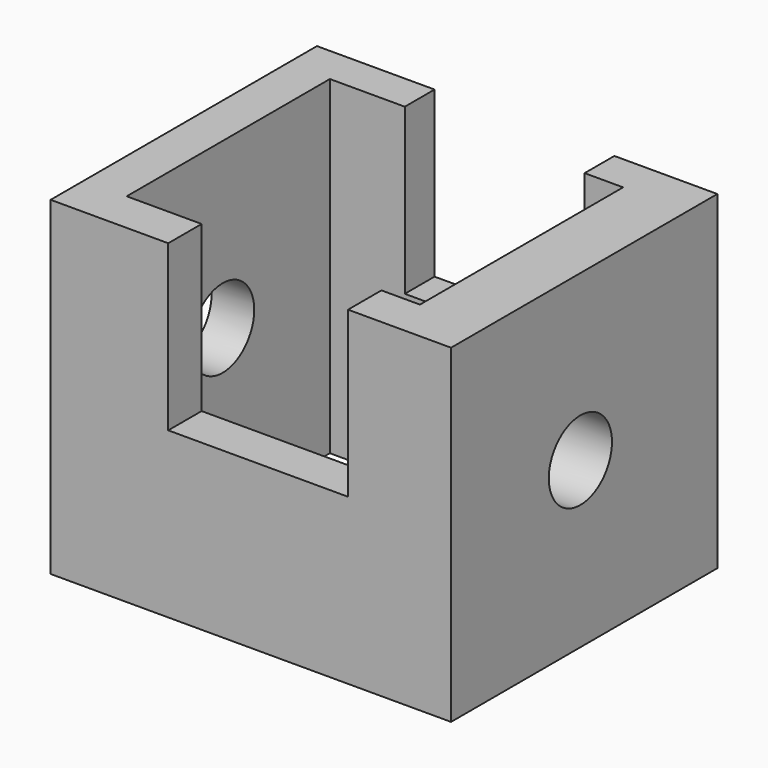
from build123d import *

# Parameters (mm, degrees)
F0_W     = 111.7562593253
F0_H     = 92.9139485481
F1_DEPTH = 45.974
F2_W     = 81.8422921002
F2_H     = 70.8807926811
F3_DEPTH = 109.728
F4_R     = 11.0212748346
F5_DEPTH = 176.022
F6_W     = 50.1861777157
F6_H     = 45.974
F7_DEPTH = 118.364


with BuildPart() as f1:
    # F0 (on Top) → F1 (new body, symmetric)
    with BuildSketch(Plane.XY):
        with Locations((-0.4647924884, 1.3352592527)):
            Rectangle(F0_W, F0_H)
    extrude(amount=F1_DEPTH, both=True)

    # F2 (on face) → F3 (cut, symmetric)
    with BuildSketch(Plane.XY.offset(45.974)):
        with Locations((-3.5118889064, 1.9688608032)):
            Rectangle(F2_W, F2_H)
    extrude(amount=F3_DEPTH, both=True, mode=Mode.SUBTRACT)

    # F4 (on face) → F5 (cut)
    with BuildSketch(Plane.YZ.offset(55.4133371742)):
        Circle(F4_R)
    extrude(amount=-F5_DEPTH, mode=Mode.SUBTRACT)

    # F6 (on face) → F7 (cut)
    with BuildSketch(Plane.XZ.offset(45.1217150214)):
        with Locations((1.5720045194, 22.987)):
            Rectangle(F6_W, F6_H)
    extrude(amount=-F7_DEPTH, mode=Mode.SUBTRACT)


solid = f1.part
